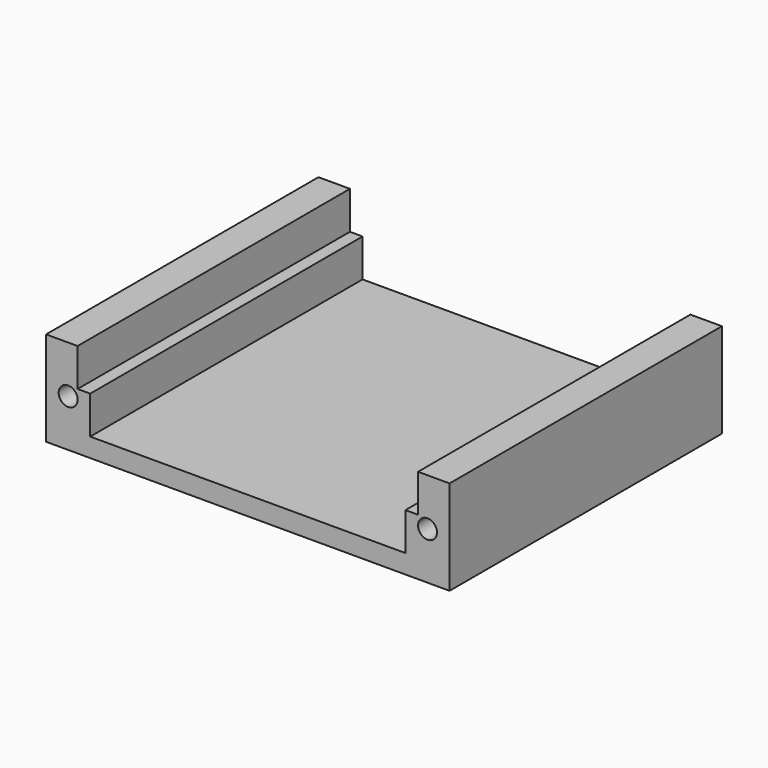
from build123d import *

# Parameters (mm, degrees)
SKETCH004_W             = 64
SKETCH004_H             = 54
PAD002_DEPTH            = 3
SKETCH005_W             = 7
SKETCH005_H             = 54
PAD003_DEPTH            = 12
SKETCH008_R             = 1.5
POCKET003_DEPTH         = 60
SKETCH009_R             = 1.5
POCKET004_DEPTH         = 60
SKETCH016_W             = 54
SKETCH016_H             = 6
POCKET008_DEPTH         = 2
SKETCH017_W             = 54
SKETCH017_H             = 6
POCKET009_DEPTH         = 2
BODY001_PLACEMENT_ANGLE = 180


with BuildPart() as part:
    # Sketch004 → Pad002 (new body)
    with BuildSketch(Plane.XY):
        Rectangle(SKETCH004_W, SKETCH004_H)
    extrude(amount=PAD002_DEPTH)

    # Sketch005 (on Face5 of Pad002) → Pad003 (join)
    with BuildSketch(Plane(origin=(0, 0, 0), x_dir=(1, 0, 0), z_dir=(0, 0, -1))):
        with Locations((28.5, 0)):
            Rectangle(SKETCH005_W, SKETCH005_H)
        with Locations((-28.5, 0)):
            Rectangle(SKETCH005_W, SKETCH005_H)
    extrude(amount=PAD003_DEPTH)

    # Sketch008 (on Face15 of Pad003) → Pocket003 (cut)
    with BuildSketch(Plane.XZ.offset(27)):
        with Locations((28.5, -4.5)):
            Circle(SKETCH008_R)
    extrude(amount=-POCKET003_DEPTH, mode=Mode.SUBTRACT)

    # Sketch009 (on Face16 of Pocket003) → Pocket004 (cut)
    with BuildSketch(Plane.XZ.offset(27)):
        with Locations((-28.5, -4.5)):
            Circle(SKETCH009_R)
    extrude(amount=-POCKET004_DEPTH, mode=Mode.SUBTRACT)

    # Sketch016 (on Face11 of Pocket004) → Pocket008 (cut)
    with BuildSketch(Plane.YZ.offset(-25)):
        with Locations((0, -9)):
            Rectangle(SKETCH016_W, SKETCH016_H)
    extrude(amount=-POCKET008_DEPTH, mode=Mode.SUBTRACT)

    # Sketch017 (on Face16 of Pocket008) → Pocket009 (cut)
    with BuildSketch(Plane(origin=(25, 0, 0), x_dir=(0, -1, 0), z_dir=(-1, 0, 0))):
        with Locations((0, -9)):
            Rectangle(SKETCH017_W, SKETCH017_H)
    extrude(amount=-POCKET009_DEPTH, mode=Mode.SUBTRACT)


with BuildPart() as part_1:
    # Body001 placement: moved
    add(part.part.moved(Location((0, 0, -14.5))).rotate(Axis((0, 0, -14.5), (1, 0, 0)), BODY001_PLACEMENT_ANGLE))


solid = part_1.part
